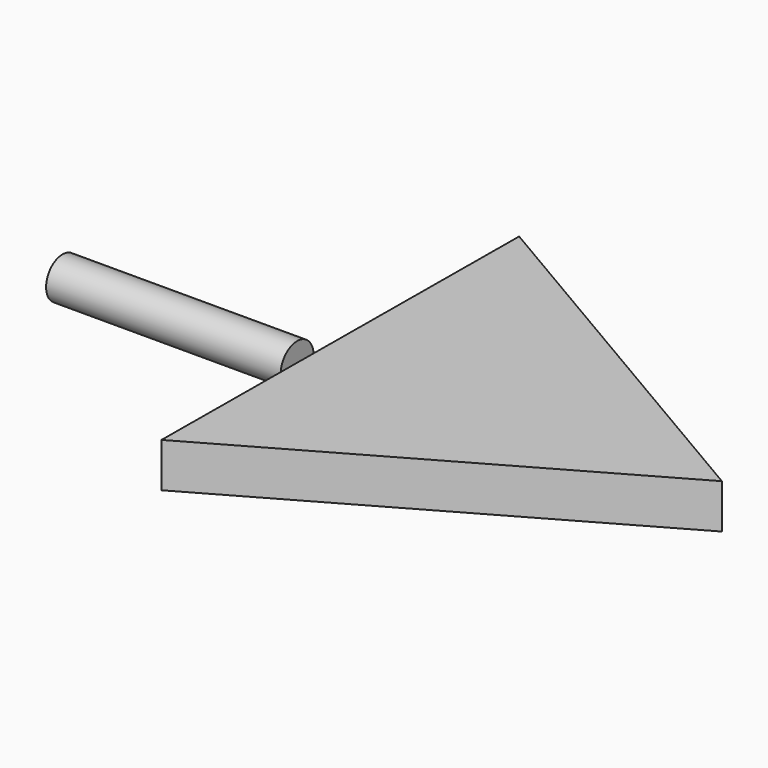
from build123d import *

# Parameters (mm, degrees)
F1_DEPTH = 2.794
F3_W     = 14.7847533226
F3_H     = 1.2935514096


with BuildPart() as f1:
    # F0 (on Top) → F1 (new body)
    with BuildSketch(Plane.XY):
        Polygon((-128.9876130796, 14.0192612934), (-129.1860315228, -13.9047043518), (-104.9039586781, -0.1145569416), align=None)
    extrude(amount=F1_DEPTH)


with BuildPart() as f4:
    # F3 (on offset) → F4 (revolve)
    with BuildSketch(Plane.XY.offset(2.032)):
        with Locations((-137.3117566109, -2.9493913753)):
            Rectangle(F3_W, F3_H)
    revolve(axis=Axis((-137.3117566109, -2.3026156705, 2.032), (-1, 0, 0)))


solid = Compound([f1.part, f4.part])
